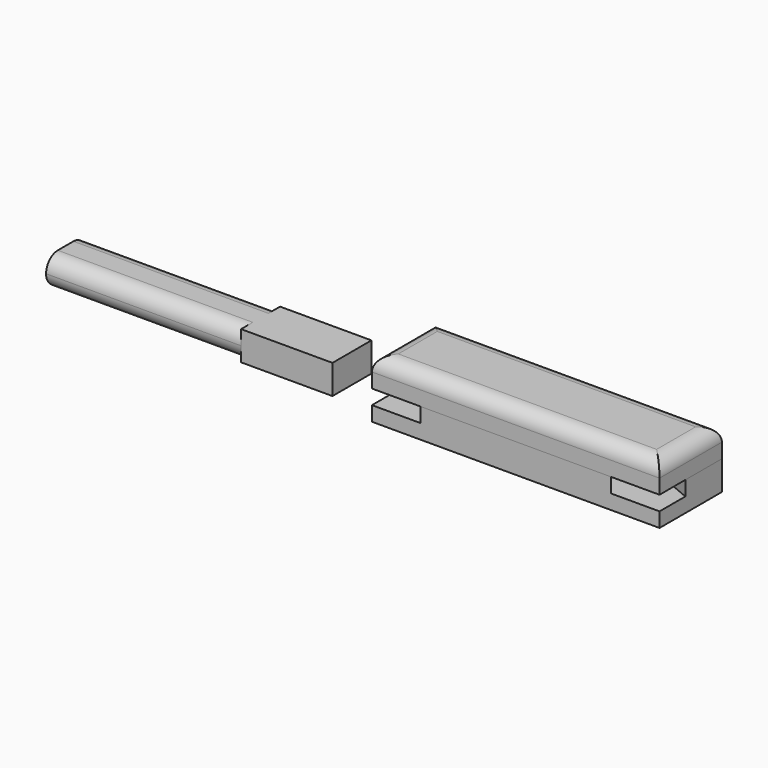
from build123d import *

# Parameters (mm, degrees)
F0_W     = 187.325
F0_H     = 50.8
F1_DEPTH = 9.525
F3_R     = 9.525
F4_W     = 186.53125
F4_H     = 31.75
F5_DEPTH = 9.525
F7_DEPTH = 127
F9_DEPTH = 9.525


with BuildPart() as f1:
    # F0 (on Top) → F1 (new body, symmetric)
    with BuildSketch(Plane.XY):
        Rectangle(F0_W, F0_H)
    extrude(amount=F1_DEPTH, both=True)


with BuildPart() as f2_1:
    # F2: copy of F1
    add(f1.part.moved(Location((0, 0, 19.05))))

    # F3
    f3_edges = [f2_1.edges().sort_by_distance(p)[0] for p in [
        (0, -25.4, 28.575),
        (93.6625, 0, 28.575),
        (0, 25.4, 28.575),
        (-93.6625, 0, 28.575),
    ]]
    fillet(f3_edges, radius=F3_R)


with BuildPart() as f5:
    # F4 (on Top) → F5 (new body, symmetric)
    with BuildSketch(Plane.XY):
        with Locations((-220.265625, 0)):
            Rectangle(F4_W, F4_H)
    extrude(amount=F5_DEPTH, both=True)

    # F6 (on face) → F7 (cut)
    with BuildSketch(Plane(origin=(-313.53125, 0, 0), x_dir=(0, -1, 0), z_dir=(-1, 0, 0))):
        with BuildLine():
            ThreePointArc((-6.35, -9.525), (-13.0851920908, -6.7351920908), (-15.875, 0))
            Line((-15.875, 0), (-15.875, -9.525))
            Line((-15.875, -9.525), (-6.35, -9.525))
        make_face()
        with BuildLine():
            ThreePointArc((-15.875, 0), (-13.0851920908, 6.7351920908), (-6.35, 9.525))
            Line((-6.35, 9.525), (-15.875, 9.525))
            Line((-15.875, 9.525), (-15.875, 0))
        make_face()
        with BuildLine():
            Line((15.875, -9.525), (15.875, 0))
            ThreePointArc((15.875, 0), (13.0851920908, -6.7351920908), (6.35, -9.525))
            Line((6.35, -9.525), (15.875, -9.525))
        make_face()
        with BuildLine():
            ThreePointArc((6.35, 9.525), (13.0851920908, 6.7351920908), (15.875, 0))
            Line((15.875, 0), (15.875, 9.525))
            Line((15.875, 9.525), (6.35, 9.525))
        make_face()
    extrude(amount=-F7_DEPTH, mode=Mode.SUBTRACT)


with BuildPart() as f1_1:
    add(f1.part)

    # F8 (on face) → F9 (cut, symmetric)
    with BuildSketch(Plane.XY.offset(9.525)):
        Polygon((-93.6625, -4.4079467915), (-93.6625, -25.4), (-61.9510543443, -25.4), (-36.6345102841, -14.6023206751), (-49.0904897159, 14.6023206751), align=None)
        Polygon((49.0904897159, 14.6023206751), (36.6345102841, -14.6023206751), (61.9510543443, -25.4), (93.6625, -25.4), (93.6625, -4.4079467915), align=None)
    extrude(amount=F9_DEPTH, both=True, mode=Mode.SUBTRACT)


solid = Compound([f2_1.part, f5.part, f1_1.part])
